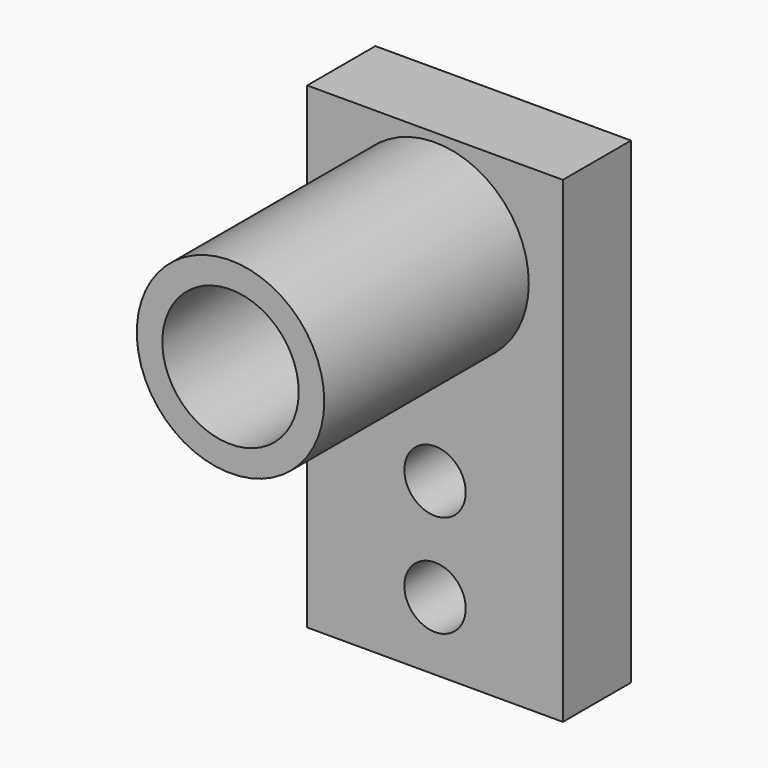
from build123d import *

# Parameters (mm, degrees)
F0_W     = 15
F0_H     = 28
F0_R     = 1.8
F0_R_2   = 5.5
F0_R_3   = 4
F1_DEPTH = 5
F2_DEPTH = 15


with BuildPart() as f1:
    # F0 (on Front) → F1 (new body)
    with BuildSketch(Plane.XZ):
        Rectangle(F0_W, F0_H)
        with Locations((0, -10)):
            Circle(F0_R, mode=Mode.SUBTRACT)
        with Locations((0, -4)):
            Circle(F0_R, mode=Mode.SUBTRACT)
        with Locations((0, 8)):
            Circle(F0_R_2, mode=Mode.SUBTRACT)
        with Locations((0, 8)):
            Circle(F0_R_2)
        with Locations((0, 8)):
            Circle(F0_R_3, mode=Mode.SUBTRACT)
        with Locations((0, 8)):
            Circle(F0_R_3)
    extrude(amount=-F1_DEPTH)

    # F0 (on Front) → F2 (join)
    with BuildSketch(Plane.XZ):
        with Locations((0, 8)):
            Circle(F0_R_2)
        with Locations((0, 8)):
            Circle(F0_R_3, mode=Mode.SUBTRACT)
    extrude(amount=F2_DEPTH)


solid = f1.part
